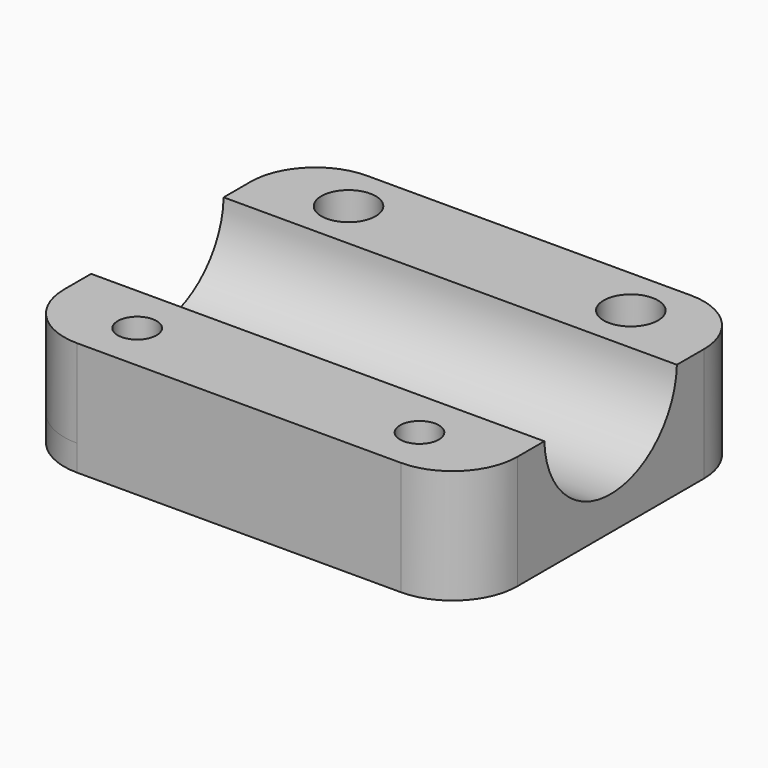
from build123d import *

# Parameters (mm, degrees)
F0_W     = 35
F0_H     = 28
F1_DEPTH = 14
F3_D     = 12.8
F4_DEPTH = 7.2
F5_R     = 5
F6_D     = 3
F8_D     = 4.2
F8_DEPTH = 5.1
F8_TIP   = 1.2618073
F9_DEPTH = 2


with BuildPart() as f1:
    # F0 (on Top) → F1 (new body)
    with BuildSketch(Plane.XY):
        Rectangle(F0_W, F0_H)
    extrude(amount=F1_DEPTH)

    # F3 (through all)
    with Locations(Plane(origin=(-17.5, 0, 0), x_dir=(0, -1, 0), z_dir=(-1, 0, 0))):
        with Locations((0, 7)):
            Hole(F3_D / 2)

    # F4 (cut): a face of the model
    f4_faces = [f1.faces().sort_by_distance(p)[0] for p in [
        (0, 0, 14),
    ]]
    extrude(f4_faces, amount=-F4_DEPTH, mode=Mode.SUBTRACT)

    # F5
    f5_edges = [f1.edges().sort_by_distance(p)[0] for p in [
        (17.5, 14, 3.4),
        (-17.5, 14, 3.4),
        (17.5, -14, 3.4),
        (-17.5, -14, 3.4),
    ]]
    fillet(f5_edges, radius=F5_R)

    # F6 (through all)
    with Locations(Plane(origin=(0, 0, 0), x_dir=(1, 0, 0), z_dir=(0, 0, -1))):
        with Locations((10.9, 10.2), (-10.9, 10.2)):
            Hole(F6_D / 2)

    # F8
    with Locations(Plane.XY.offset(6.8)):
        with Locations((-10.9, 10.2), (10.9, 10.2)):
            Hole(F8_D / 2, depth=F8_DEPTH)
            with Locations((0, 0, -(F8_DEPTH + F8_TIP / 2))):  # 118° drill point
                Cone(0, F8_D / 2, F8_TIP, mode=Mode.SUBTRACT)

    # F9 (add): a face of the model
    f9_faces = [f1.faces().sort_by_distance(p)[0] for p in [
        (0, 0.15268816, 0),
    ]]
    extrude(f9_faces, amount=F9_DEPTH)


solid = f1.part
